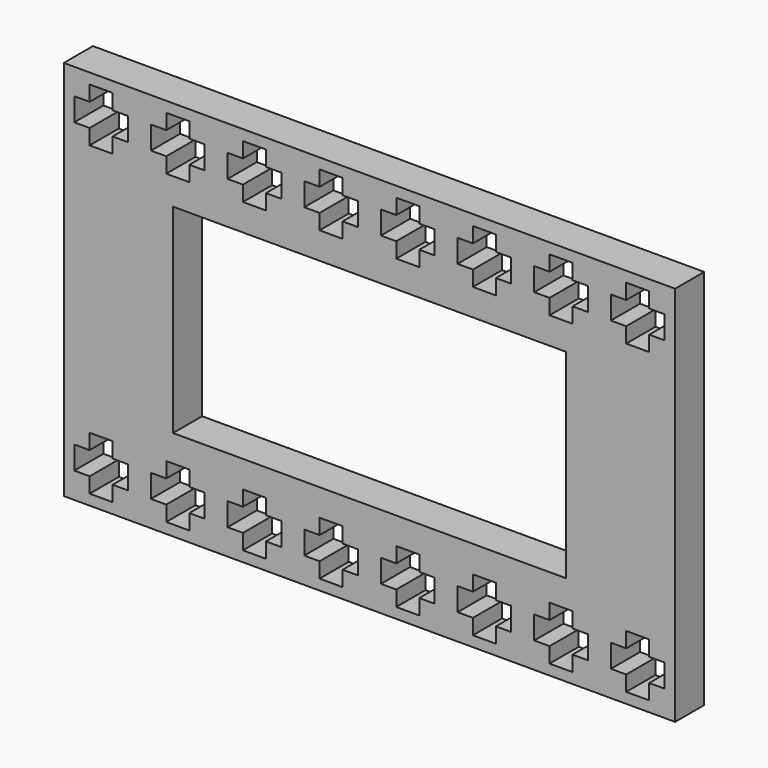
from build123d import *

# Parameters (mm, degrees)
F0_W     = 63.8
F0_H     = 39.8
F0_W_2   = 41
F0_H_2   = 20.8
F1_DEPTH = 3.8
F3_DEPTH = 25


with BuildPart() as f1:
    # F0 (on Front) → F1 (new body)
    with BuildSketch(Plane.XZ):
        Rectangle(F0_W, F0_H)
        Rectangle(F0_W_2, F0_H_2, mode=Mode.SUBTRACT)
    extrude(amount=F1_DEPTH)

    # F2 (on face) → F3 (cut)
    with BuildSketch(Plane.XZ.offset(3.8)):
        Polygon((-29.2, 17.2), (-30.8, 17.2), (-30.8, 14.8), (-29.2, 14.8), (-29.2, 13.2), (-26.8, 13.2), (-26.8, 14.8), (-25.2, 14.8), (-25.2, 17.2), (-26.8, 17.2), (-26.8, 18.8), (-29.2, 18.8), align=None)
        Polygon((-26.8, -13.2), (-29.2, -13.2), (-29.2, -14.8), (-30.8, -14.8), (-30.8, -17.2), (-29.2, -17.2), (-29.2, -18.8), (-26.8, -18.8), (-26.8, -17.2), (-25.2, -17.2), (-25.2, -14.8), (-26.8, -14.8), align=None)
        Polygon((-18.8, 18.8), (-21.2, 18.8), (-21.2, 17.2), (-22.8, 17.2), (-22.8, 14.8), (-21.2, 14.8), (-21.2, 13.2), (-18.8, 13.2), (-18.8, 14.8), (-17.2, 14.8), (-17.2, 17.2), (-18.8, 17.2), align=None)
        Polygon((-18.8, -13.2), (-21.2, -13.2), (-21.2, -14.8), (-22.8, -14.8), (-22.8, -17.2), (-21.2, -17.2), (-21.2, -18.8), (-18.8, -18.8), (-18.8, -17.2), (-17.2, -17.2), (-17.2, -14.8), (-18.8, -14.8), align=None)
        Polygon((-10.8, 18.8), (-13.2, 18.8), (-13.2, 17.2), (-14.8, 17.2), (-14.8, 14.8), (-13.2, 14.8), (-13.2, 13.2), (-10.8, 13.2), (-10.8, 14.8), (-9.2, 14.8), (-9.2, 17.2), (-10.8, 17.2), align=None)
        Polygon((-10.8, -13.2), (-13.2, -13.2), (-13.2, -14.8), (-14.8, -14.8), (-14.8, -17.2), (-13.2, -17.2), (-13.2, -18.8), (-10.8, -18.8), (-10.8, -17.2), (-9.2, -17.2), (-9.2, -14.8), (-10.8, -14.8), align=None)
        Polygon((-2.8, 18.8), (-5.2, 18.8), (-5.2, 17.2), (-6.8, 17.2), (-6.8, 14.8), (-5.2, 14.8), (-5.2, 13.2), (-2.8, 13.2), (-2.8, 14.8), (-1.2, 14.8), (-1.2, 17.2), (-2.8, 17.2), align=None)
        Polygon((-2.8, -13.2), (-5.2, -13.2), (-5.2, -14.8), (-6.8, -14.8), (-6.8, -17.2), (-5.2, -17.2), (-5.2, -18.8), (-2.8, -18.8), (-2.8, -17.2), (-1.2, -17.2), (-1.2, -14.8), (-2.8, -14.8), align=None)
        Polygon((5.2, 18.8), (2.8, 18.8), (2.8, 17.2), (1.2, 17.2), (1.2, 14.8), (2.8, 14.8), (2.8, 13.2), (5.2, 13.2), (5.2, 14.8), (6.8, 14.8), (6.8, 17.2), (5.2, 17.2), align=None)
        Polygon((5.2, -13.2), (2.8, -13.2), (2.8, -14.8), (1.2, -14.8), (1.2, -17.2), (2.8, -17.2), (2.8, -18.8), (5.2, -18.8), (5.2, -17.2), (6.8, -17.2), (6.8, -14.8), (5.2, -14.8), align=None)
        Polygon((13.2, 18.8), (10.8, 18.8), (10.8, 17.2), (9.2, 17.2), (9.2, 14.8), (10.8, 14.8), (10.8, 13.2), (13.2, 13.2), (13.2, 14.8), (14.8, 14.8), (14.8, 17.2), (13.2, 17.2), align=None)
        Polygon((13.2, -13.2), (10.8, -13.2), (10.8, -14.8), (9.2, -14.8), (9.2, -17.2), (10.8, -17.2), (10.8, -18.8), (13.2, -18.8), (13.2, -17.2), (14.8, -17.2), (14.8, -14.8), (13.2, -14.8), align=None)
        Polygon((21.2, 18.8), (18.8, 18.8), (18.8, 17.2), (17.2, 17.2), (17.2, 14.8), (18.8, 14.8), (18.8, 13.2), (21.2, 13.2), (21.2, 14.8), (22.8, 14.8), (22.8, 17.2), (21.2, 17.2), align=None)
        Polygon((21.2, -13.2), (18.8, -13.2), (18.8, -14.8), (17.2, -14.8), (17.2, -17.2), (18.8, -17.2), (18.8, -18.8), (21.2, -18.8), (21.2, -17.2), (22.8, -17.2), (22.8, -14.8), (21.2, -14.8), align=None)
        Polygon((29.2, 18.8), (26.8, 18.8), (26.8, 17.2), (25.2, 17.2), (25.2, 14.8), (26.8, 14.8), (26.8, 13.2), (29.2, 13.2), (29.2, 14.8), (30.8, 14.8), (30.8, 17.2), (29.2, 17.2), align=None)
        Polygon((29.2, -13.2), (26.8, -13.2), (26.8, -14.8), (25.2, -14.8), (25.2, -17.2), (26.8, -17.2), (26.8, -18.8), (29.2, -18.8), (29.2, -17.2), (30.8, -17.2), (30.8, -14.8), (29.2, -14.8), align=None)
    extrude(amount=-F3_DEPTH, mode=Mode.SUBTRACT)


solid = f1.part
